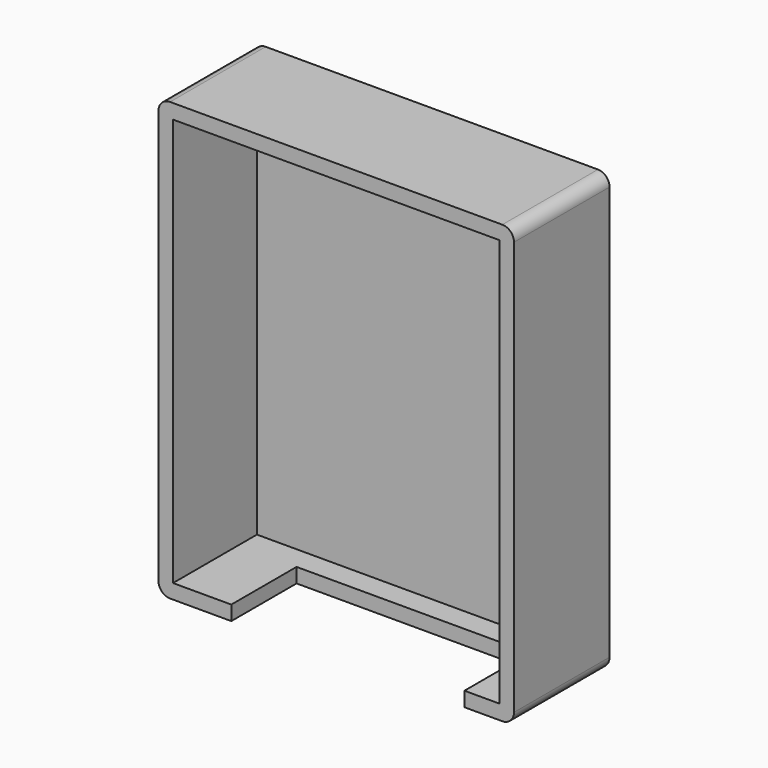
from build123d import *

# Parameters (mm, degrees)
F0_W     = 61
F0_H     = 75
F1_DEPTH = 20.5
F2_R     = 2
F3_T     = -2.5
F4_W     = 40
F4_H     = 14
F5_DEPTH = 25


with BuildPart() as f1:
    # F0 (on Front) → F1 (new body)
    with BuildSketch(Plane.XZ):
        with Locations((30.5, 37.5)):
            Rectangle(F0_W, F0_H)
    extrude(amount=F1_DEPTH)

    # F2
    f2_edges = [f1.edges().sort_by_distance(p)[0] for p in [
        (0, -10.25, 75),
        (61, -10.25, 75),
        (61, -10.25, 0),
        (0, -10.25, 0),
    ]]
    fillet(f2_edges, radius=F2_R)

    # F3
    f3_openings = [f1.faces().sort_by_distance(p)[0] for p in [
        (30.5, -20.5, 37.5),
    ]]
    offset(amount=F3_T, openings=f3_openings)

    # F4 (on face) → F5 (cut)
    with BuildSketch(Plane.XY.offset(2.5)):
        with Locations((32.5, -13.5)):
            Rectangle(F4_W, F4_H)
    extrude(amount=-F5_DEPTH, mode=Mode.SUBTRACT)


solid = f1.part
